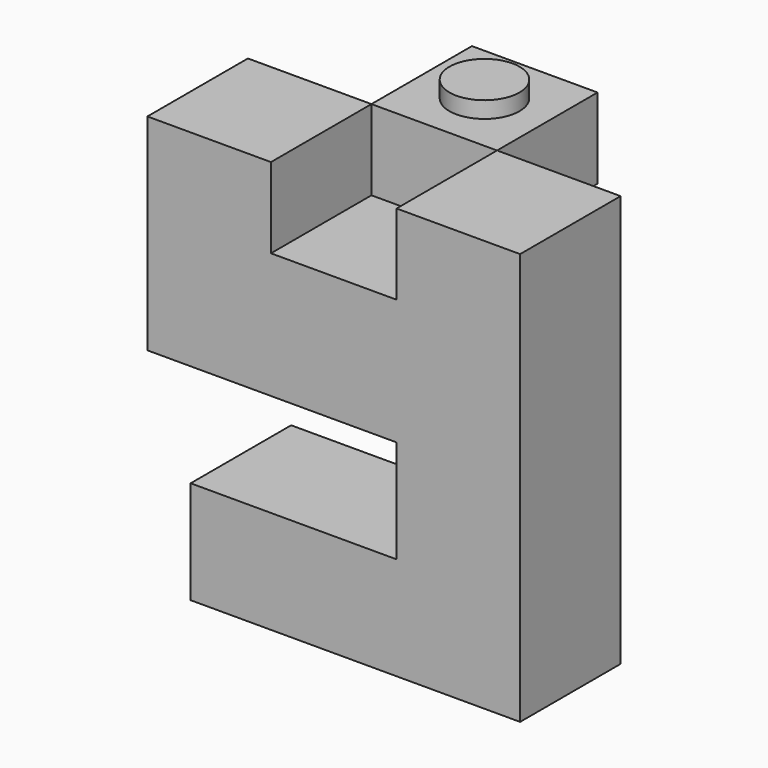
from build123d import *

# Parameters (mm, degrees)
F0_W     = 6.1
F0_H     = 3.9
F1_DEPTH = 6.1
F2_R     = 1.7
F3_DEPTH = 0.8
F4_W     = 6.1
F4_H     = 6.1
F4_W_2   = 10
F4_H_2   = 5
F5_DEPTH = 6.1


with BuildPart() as f1:
    # F0 (on Front) → F1 (new body)
    with BuildSketch(Plane.XZ):
        with Locations((3.05, 1.95)):
            Rectangle(F0_W, F0_H)
    extrude(amount=F1_DEPTH)

    # F2 (on face) → F3 (join)
    with BuildSketch(Plane.XY.offset(3.9)):
        with Locations((3.05, -3.05)):
            Circle(F2_R)
    extrude(amount=F3_DEPTH)


with BuildPart() as f5:
    # F4 (on face) → F5 (new body)
    with BuildSketch(Plane.XZ.offset(6.1)):
        Polygon((0, 0), (0, 3.9), (-6, 3.9), (-6, -6.1), (0, -6.1), align=None)
        with Locations((3.05, -3.05)):
            Rectangle(F4_W, F4_H)
        Polygon((6.1, 3.9), (6.1, 0), (6.1, -6.1), (12.1, -6.1), (12.1, 3.9), align=None)
        Polygon((12.1, -6.1), (6.1, -6.1), (6.1, -11.1), (6.1, -16.1), (12.1, -16.1), align=None)
        with Locations((1.1, -13.6)):
            Rectangle(F4_W_2, F4_H_2)
    extrude(amount=F5_DEPTH)


solid = Compound([f1.part, f5.part])
